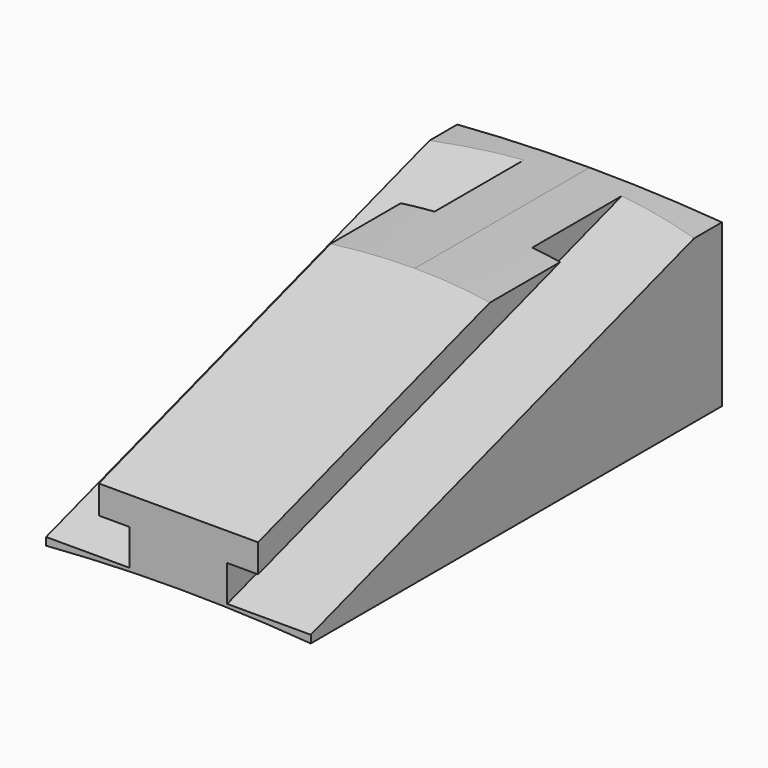
from build123d import *

# Parameters (mm, degrees)
F1_DEPTH = 51.5
F2_DEPTH = 19
F3_DEPTH = 31
F5_DEPTH = 200
F7_DEPTH = 200


with BuildPart() as f1:
    # F0 (on Right) → F1 (new body, symmetric)
    with BuildSketch(Plane.YZ):
        Polygon((0, 3), (0, 0), (200, 0), (200, 65), (192.702703, 65), align=None)
    extrude(amount=F1_DEPTH, both=True)

    # F0 (on Right) → F2 (join, symmetric)
    with BuildSketch(Plane.YZ):
        Polygon((0, 17), (0, 3), (192.702703, 65), (149.189189, 65), align=None)
    extrude(amount=F2_DEPTH, both=True)

    # F0 (on Right) → F3 (join, symmetric)
    with BuildSketch(Plane.YZ):
        Polygon((0, 28), (0, 17), (149.189189, 65), (115, 65), align=None)
    extrude(amount=F3_DEPTH, both=True)

    # F4 (on Front) → F5 (cut)
    with BuildSketch(Plane.XZ):
        with BuildLine():
            Line((-51.5, 0), (0, 0))
            Line((0, 0), (0, 2))
            ThreePointArc((0, 2), (-25.76941, 1.499812), (-51.5, 0))
        make_face()
        with BuildLine():
            Line((0, 2), (0, 0))
            Line((0, 0), (51.5, 0))
            ThreePointArc((51.5, 0), (25.76941, 1.499812), (0, 2))
        make_face()
    extrude(amount=-F5_DEPTH, mode=Mode.SUBTRACT)

    # F6 (on Front) → F7 (cut)
    with BuildSketch(Plane.XZ):
        with BuildLine():
            ThreePointArc((0, 65), (25.76941, 64.499812), (51.5, 63))
            Line((51.5, 63), (51.5, 65))
            Line((51.5, 65), (0, 65))
        make_face()
        with BuildLine():
            Line((-51.5, 65), (-51.5, 63))
            ThreePointArc((-51.5, 63), (-25.76941, 64.499812), (0, 65))
            Line((0, 65), (-51.5, 65))
        make_face()
    extrude(amount=-F7_DEPTH, mode=Mode.SUBTRACT)


solid = f1.part
